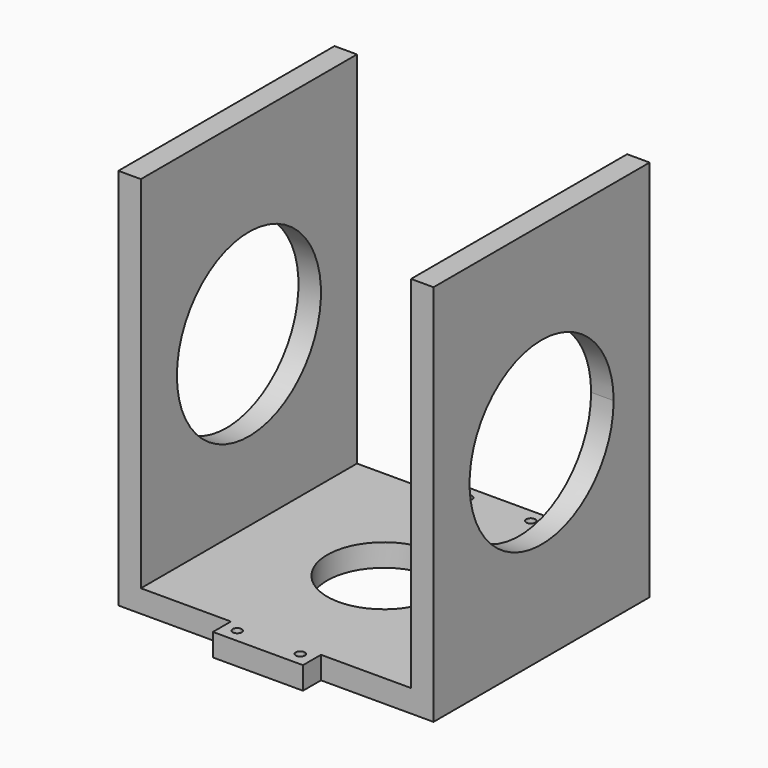
from build123d import *

# Parameters (mm, degrees)
F0_R     = 16.002
F1_DEPTH = 6.35
F2_W     = 6.35
F2_H     = 76.2
F3_DEPTH = 101.6
F5_DEPTH = 101.6
F6_W     = 6.35
F6_H     = 76.2
F7_DEPTH = 101.6
F9_DEPTH = 25.4


with BuildPart() as f1:
    # F0 (on Top) → F1 (new body)
    with BuildSketch(Plane.XY):
        Polygon((0, -38.1), (0, 0), (-31.75, 0), (-35.56, 0), (-53.34, 0), (-57.15, 0), (-88.9, 0), (-88.9, -76.2), (-57.15, -76.2), (-53.34, -76.2), (-35.56, -76.2), (-31.75, -76.2), (0, -76.2), align=None)
        with Locations((-44.45, -38.1)):
            Circle(F0_R, mode=Mode.SUBTRACT)
        Polygon((-35.56, 0), (-31.75, 0), (-31.75, 2.54), (-31.75, 6.35), (-57.15, 6.35), (-57.15, 2.54), (-57.15, 0), (-53.34, 0), align=None)
        with BuildLine():
            ThreePointArc((-53.34, 1.27), (-54.238026, 1.641974), (-54.61, 2.54))
            ThreePointArc((-54.61, 2.54), (-53.34, 3.81), (-52.07, 2.54))
            ThreePointArc((-52.07, 2.54), (-52.441974, 1.641974), (-53.34, 1.27))
        make_face(mode=Mode.SUBTRACT)
        with BuildLine():
            ThreePointArc((-35.56, 1.27), (-36.458026, 3.438026), (-34.29, 2.54))
            ThreePointArc((-34.29, 2.54), (-34.661974, 1.641974), (-35.56, 1.27))
        make_face(mode=Mode.SUBTRACT)
        Polygon((-31.75, -78.74), (-31.75, -76.2), (-35.56, -76.2), (-53.34, -76.2), (-57.15, -76.2), (-57.15, -78.74), (-57.15, -82.55), (-31.75, -82.55), align=None)
        with BuildLine():
            ThreePointArc((-52.07, -78.74), (-53.34, -80.01), (-54.61, -78.74))
            ThreePointArc((-54.61, -78.74), (-54.238026, -77.841974), (-53.34, -77.47))
            ThreePointArc((-53.34, -77.47), (-52.441974, -77.841974), (-52.07, -78.74))
        make_face(mode=Mode.SUBTRACT)
        with BuildLine():
            ThreePointArc((-35.56, -77.47), (-34.661974, -77.841974), (-34.29, -78.74))
            ThreePointArc((-34.29, -78.74), (-36.458026, -79.638026), (-35.56, -77.47))
        make_face(mode=Mode.SUBTRACT)
    extrude(amount=F1_DEPTH)

    # F2 (on face) → F3 (join)
    with BuildSketch(Plane.XY.offset(6.35)):
        with Locations((-85.725, -38.1)):
            Rectangle(F2_W, F2_H)
    extrude(amount=F3_DEPTH)

    # F4 (on face) → F5 (cut)
    with BuildSketch(Plane(origin=(-88.9, 0, 0), x_dir=(0, -1, 0), z_dir=(-1, 0, 0))):
        with BuildLine():
            ThreePointArc((12.7, 53.975), (38.1, 28.575), (63.5, 53.975))
            ThreePointArc((63.5, 53.975), (38.1, 79.375), (12.7, 53.975))
        make_face()
    extrude(amount=-F5_DEPTH, mode=Mode.SUBTRACT)

    # F6 (on face) → F7 (join)
    with BuildSketch(Plane.XY.offset(6.35)):
        with Locations((-3.175, -38.1)):
            Rectangle(F6_W, F6_H)
    extrude(amount=F7_DEPTH)

    # F8 (on face) → F9 (cut)
    with BuildSketch(Plane.YZ):
        with BuildLine():
            ThreePointArc((-12.7, 53.975), (-20.139488, 71.935512), (-38.1, 79.375))
            ThreePointArc((-38.1, 79.375), (-56.060512, 36.014488), (-12.7, 53.975))
        make_face()
    extrude(amount=-F9_DEPTH, mode=Mode.SUBTRACT)


solid = f1.part
